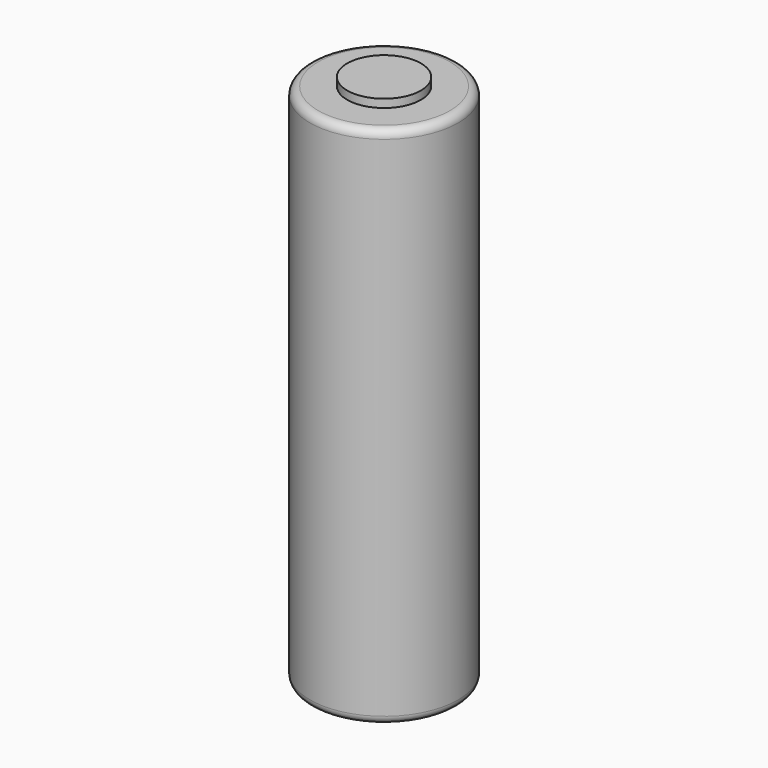
from build123d import *

# Parameters (mm, degrees)
F0_R     = 9.05
F1_DEPTH = 65
F2_R     = 9.05
F2_R_2   = 4.5
F3_DEPTH = 1
F4_R     = 1


with BuildPart() as f1:
    # F0 (on Top) → F1 (new body)
    with BuildSketch(Plane.XY):
        with Locations((-32.211091, -44.579212)):
            Circle(F0_R)
    extrude(amount=F1_DEPTH)

    # F2 (on face) → F3 (cut)
    with BuildSketch(Plane.XY.offset(65)):
        with Locations((-32.211091, -44.579212)):
            Circle(F2_R)
        with Locations((-32.211091, -44.579212)):
            Circle(F2_R_2, mode=Mode.SUBTRACT)
    extrude(amount=-F3_DEPTH, mode=Mode.SUBTRACT)

    # F4
    f4_edges = [f1.edges().sort_by_distance(p)[0] for p in [
        (-41.261091, -44.579212, 64),
        (-41.261091, -44.579212, 0),
    ]]
    fillet(f4_edges, radius=F4_R)


solid = f1.part
